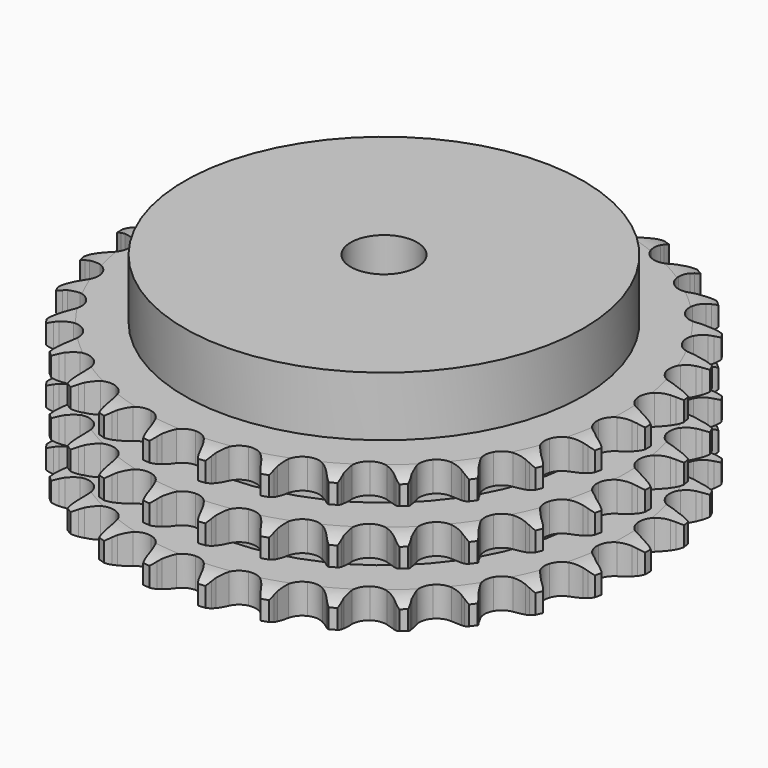
from build123d import *

# Parameters (mm, degrees)
PAD_DEPTH         = 42.1
SKETCH001_R       = 60
PAD001_DEPTH      = 60
SKETCH002_R       = 10
POCKET_DEPTH      = 0.001
POCKET_DEPTH_BACK = 60.001


with BuildPart() as part:
    # Sprocket → Pad (new body)
    with BuildSketch(Plane.XY):
        with BuildLine():
            ThreePointArc((-8.457976, 80.472268), (-7.258124, 79.052161), (-6.405169, 77.400249))
            Line((-6.405169, 77.400249), (-5.909738, 76.100573))
            ThreePointArc((-5.909738, 76.100573), (-5.123685, 74.407167), (-4.107782, 72.840819))
            ThreePointArc((-4.107782, 72.840819), (-2.295018, 71.33316), (0, 70.792755))
            ThreePointArc((0, 70.792755), (2.295018, 71.33316), (4.107782, 72.840819))
            ThreePointArc((4.107782, 72.840819), (5.123685, 74.407167), (5.909738, 76.100573))
            Line((5.909738, 76.100573), (6.405169, 77.400249))
            ThreePointArc((6.405169, 77.400249), (7.258124, 79.052161), (8.457976, 80.472268))
            ThreePointArc((8.457976, 80.472268), (9.336351, 78.833731), (9.827215, 77.040577))
            Line((9.827215, 77.040577), (10.041603, 75.666296))
            ThreePointArc((10.041603, 75.666296), (10.4584, 73.846465), (11.126441, 72.103128))
            ThreePointArc((11.126441, 72.103128), (12.586131, 70.25152), (14.718641, 69.245763))
            ThreePointArc((14.718641, 69.245763), (17.075865, 69.297198), (19.162475, 70.395017))
            Line((19.162475, 70.395017), (21.602794, 73.208889))
            ThreePointArc((21.602794, 73.208889), (21.964891, 73.802919), (22.357618, 74.377158))
            ThreePointArc((22.357618, 74.377158), (23.535385, 75.815633), (25.004274, 76.955243))
            ThreePointArc((25.004274, 76.955243), (25.522784, 75.169888), (25.630104, 73.313863))
            Line((25.630104, 73.313863), (25.554078, 71.925039))
            ThreePointArc((25.554078, 71.925039), (25.583402, 70.058319), (25.874385, 68.214185))
            ThreePointArc((25.874385, 68.214185), (26.917206, 66.099552), (28.794007, 64.672399))
            ThreePointArc((28.794007, 64.672399), (31.110414, 64.232616), (33.379676, 64.872614))
            Line((33.379676, 64.872614), (36.351705, 67.117626))
            ThreePointArc((36.351705, 67.117626), (36.829395, 67.62339), (37.332931, 68.103429))
            ThreePointArc((37.332931, 68.103429), (38.784037, 69.265598), (40.457766, 70.074906))
            ThreePointArc((40.457766, 70.074906), (40.593748, 68.22076), (40.312834, 66.382981))
            Line((40.312834, 66.382981), (39.949716, 65.040313))
            ThreePointArc((39.949716, 65.040313), (39.590287, 63.208289), (39.491494, 61.343954))
            ThreePointArc((39.491494, 61.343954), (40.07187, 59.058716), (41.610937, 57.272542))
            ThreePointArc((41.610937, 57.272542), (43.785288, 56.36076), (46.138024, 56.514967))
            Line((46.138024, 56.514967), (49.511872, 58.093))
            ThreePointArc((49.511872, 58.093), (50.084278, 58.488395), (50.676616, 58.853253))
            ThreePointArc((50.676616, 58.853253), (52.33764, 59.688323), (54.143059, 60.131958))
            ThreePointArc((54.143059, 60.131958), (53.890571, 58.290058), (53.233699, 56.550844))
            Line((53.233699, 56.550844), (52.59936, 55.313013))
            ThreePointArc((52.59936, 55.313013), (51.866887, 53.595752), (51.382635, 51.792698))
            ThreePointArc((51.382635, 51.792698), (51.475201, 49.436732), (52.609269, 47.369599))
            ThreePointArc((52.609269, 47.369599), (54.546536, 46.025669), (56.87992, 45.687345))
            Line((56.87992, 45.687345), (60.508133, 46.529431))
            ThreePointArc((60.508133, 46.529431), (61.150237, 46.797177), (61.805489, 47.030907))
            ThreePointArc((61.805489, 47.030907), (63.603838, 47.502383), (65.46204, 47.560956))
            ThreePointArc((65.46204, 47.560956), (64.832118, 45.811801), (63.827997, 44.247164))
            Line((63.827997, 44.247164), (62.95016, 43.168269))
            ThreePointArc((62.95016, 43.168269), (61.876654, 41.640824), (61.028109, 39.977853))
            ThreePointArc((61.028109, 39.977853), (60.628819, 37.654124), (61.308324, 35.396377))
            ThreePointArc((61.308324, 35.396377), (62.923838, 33.679036), (65.135891, 32.862966))
            Line((65.135891, 32.862966), (68.859898, 32.932303))
            ThreePointArc((68.859898, 32.932303), (69.543638, 33.060697), (70.233166, 33.153085))
            ThreePointArc((70.233166, 33.153085), (72.090242, 33.24036), (73.920016, 32.911312))
            ThreePointArc((73.920016, 32.911312), (72.940189, 31.331348), (71.632705, 30.00967))
            Line((71.632705, 30.00967), (70.549736, 29.136865))
            ThreePointArc((70.549736, 29.136865), (69.182115, 27.865993), (68.006361, 26.415784))
            ThreePointArc((68.006361, 26.415784), (67.132667, 24.225851), (67.327911, 21.876164))
            ThreePointArc((67.327911, 21.876164), (68.551066, 19.860466), (70.54511, 18.602318))
            Line((70.54511, 18.602318), (74.202155, 17.895876))
            ThreePointArc((74.202155, 17.895876), (74.897648, 17.879306), (75.591317, 17.826314))
            ThreePointArc((75.591317, 17.826314), (77.425957, 17.525575), (79.147333, 16.823285))
            ThreePointArc((79.147333, 16.823285), (77.860425, 15.481565), (76.30672, 14.46061))
            Line((76.30672, 14.46061), (75.06595, 13.832039))
            ThreePointArc((75.06595, 13.832039), (73.463985, 12.873283), (72.012409, 11.699218))
            ThreePointArc((72.012409, 11.699218), (70.702494, 9.738792), (70.404944, 7.399858))
            ThreePointArc((70.404944, 7.399858), (71.182284, 5.173899), (72.87117, 3.52866))
            Line((72.87117, 3.52866), (76.301421, 2.077313))
            ThreePointArc((76.301421, 2.077313), (76.978271, 1.916504), (77.645765, 1.720448))
            ThreePointArc((77.645765, 1.720448), (79.377786, 1.044837), (80.915531, 0))
            ThreePointArc((80.915531, 0), (79.377786, -1.044837), (77.645765, -1.720448))
            Line((77.645765, -1.720448), (76.301421, -2.077313))
            ThreePointArc((76.301421, -2.077313), (74.535127, -2.68205), (72.87117, -3.52866))
            ThreePointArc((72.87117, -3.52866), (71.182284, -5.173899), (70.404944, -7.399858))
            ThreePointArc((70.404944, -7.399858), (70.702494, -9.738792), (72.012409, -11.699218))
            Line((72.012409, -11.699218), (75.06595, -13.832039))
            ThreePointArc((75.06595, -13.832039), (75.694575, -14.130059), (76.30672, -14.46061))
            ThreePointArc((76.30672, -14.46061), (77.860425, -15.481565), (79.147333, -16.823285))
            ThreePointArc((79.147333, -16.823285), (77.425957, -17.525575), (75.591317, -17.826314))
            Line((75.591317, -17.826314), (74.202155, -17.895876))
            ThreePointArc((74.202155, -17.895876), (72.348726, -18.120165), (70.54511, -18.602318))
            ThreePointArc((70.54511, -18.602318), (68.551066, -19.860466), (67.327911, -21.876164))
            ThreePointArc((67.327911, -21.876164), (67.132667, -24.225851), (68.006361, -26.415784))
            Line((68.006361, -26.415784), (70.549736, -29.136865))
            ThreePointArc((70.549736, -29.136865), (71.102662, -29.55907), (71.632705, -30.00967))
            ThreePointArc((71.632705, -30.00967), (72.940189, -31.331348), (73.920016, -32.911312))
            ThreePointArc((73.920016, -32.911312), (72.090242, -33.24036), (70.233166, -33.153085))
            Line((70.233166, -33.153085), (68.859898, -32.932303))
            ThreePointArc((68.859898, -32.932303), (67.000339, -32.766342), (65.135891, -32.862966))
            ThreePointArc((65.135891, -32.862966), (62.923838, -33.679036), (61.308324, -35.396377))
            ThreePointArc((61.308324, -35.396377), (60.628819, -37.654124), (61.028109, -39.977853))
            Line((61.028109, -39.977853), (62.95016, -43.168269))
            ThreePointArc((62.95016, -43.168269), (63.403222, -43.696209), (63.827997, -44.247164))
            ThreePointArc((63.827997, -44.247164), (64.832118, -45.811801), (65.46204, -47.560956))
            ThreePointArc((65.46204, -47.560956), (63.603838, -47.502383), (61.805489, -47.030907))
            Line((61.805489, -47.030907), (60.508133, -46.529431))
            ThreePointArc((60.508133, -46.529431), (58.723715, -45.980473), (56.87992, -45.687345))
            ThreePointArc((56.87992, -45.687345), (54.546536, -46.025669), (52.609269, -47.369599))
            ThreePointArc((52.609269, -47.369599), (51.475201, -49.436732), (51.382635, -51.792698))
            Line((51.382635, -51.792698), (52.59936, -55.313013))
            ThreePointArc((52.59936, -55.313013), (52.932757, -55.923613), (53.233699, -56.550844))
            ThreePointArc((53.233699, -56.550844), (53.890571, -58.290058), (54.143059, -60.131958))
            ThreePointArc((54.143059, -60.131958), (52.33764, -59.688323), (50.676616, -58.853253))
            Line((50.676616, -58.853253), (49.511872, -58.093))
            ThreePointArc((49.511872, -58.093), (47.880583, -57.185036), (46.138024, -56.514967))
            ThreePointArc((46.138024, -56.514967), (43.785288, -56.36076), (41.610937, -57.272542))
            ThreePointArc((41.610937, -57.272542), (40.07187, -59.058716), (39.491494, -61.343954))
            Line((39.491494, -61.343954), (39.949716, -65.040313))
            ThreePointArc((39.949716, -65.040313), (40.148877, -65.706887), (40.312834, -66.382981))
            ThreePointArc((40.312834, -66.382981), (40.593748, -68.22076), (40.457766, -70.074906))
            ThreePointArc((40.457766, -70.074906), (38.784037, -69.265598), (37.332931, -68.103429))
            Line((37.332931, -68.103429), (36.351705, -67.117626))
            ThreePointArc((36.351705, -67.117626), (34.94484, -65.890339), (33.379676, -64.872614))
            ThreePointArc((33.379676, -64.872614), (31.110414, -64.232616), (28.794007, -64.672399))
            ThreePointArc((28.794007, -64.672399), (26.917206, -66.099552), (25.874385, -68.214185))
            Line((25.874385, -68.214185), (25.554078, -71.925039))
            ThreePointArc((25.554078, -71.925039), (25.610297, -72.618454), (25.630104, -73.313863))
            ThreePointArc((25.630104, -73.313863), (25.522784, -75.169888), (25.004274, -76.955243))
            ThreePointArc((25.004274, -76.955243), (23.535385, -75.815633), (22.357618, -74.377158))
            Line((22.357618, -74.377158), (21.602794, -73.208889))
            ThreePointArc((21.602794, -73.208889), (20.48184, -71.715917), (19.162475, -70.395017))
            ThreePointArc((19.162475, -70.395017), (17.075865, -69.297198), (14.718641, -69.245763))
            ThreePointArc((14.718641, -69.245763), (12.586131, -70.25152), (11.126441, -72.103128))
            Line((11.126441, -72.103128), (10.041603, -75.666296))
            ThreePointArc((10.041603, -75.666296), (9.952425, -76.356247), (9.827215, -77.040577))
            ThreePointArc((9.827215, -77.040577), (9.336351, -78.833731), (8.457976, -80.472268))
            ThreePointArc((8.457976, -80.472268), (7.258124, -79.052161), (6.405169, -77.400249))
            Line((6.405169, -77.400249), (5.909738, -76.100573))
            ThreePointArc((5.909738, -76.100573), (5.123685, -74.407167), (4.107782, -72.840819))
            ThreePointArc((4.107782, -72.840819), (2.295018, -71.33316), (0, -70.792755))
            ThreePointArc((0, -70.792755), (-2.295018, -71.33316), (-4.107782, -72.840819))
            Line((-4.107782, -72.840819), (-5.909738, -76.100573))
            ThreePointArc((-5.909738, -76.100573), (-6.140415, -76.756906), (-6.405169, -77.400249))
            ThreePointArc((-6.405169, -77.400249), (-7.258124, -79.052161), (-8.457976, -80.472268))
            ThreePointArc((-8.457976, -80.472268), (-9.336351, -78.833731), (-9.827215, -77.040577))
            Line((-9.827215, -77.040577), (-10.041603, -75.666296))
            ThreePointArc((-10.041603, -75.666296), (-10.4584, -73.846465), (-11.126441, -72.103128))
            ThreePointArc((-11.126441, -72.103128), (-12.586131, -70.25152), (-14.718641, -69.245763))
            ThreePointArc((-14.718641, -69.245763), (-17.075865, -69.297198), (-19.162475, -70.395017))
            Line((-19.162475, -70.395017), (-21.602794, -73.208889))
            ThreePointArc((-21.602794, -73.208889), (-21.964891, -73.802919), (-22.357618, -74.377158))
            ThreePointArc((-22.357618, -74.377158), (-23.535385, -75.815633), (-25.004274, -76.955243))
            ThreePointArc((-25.004274, -76.955243), (-25.522784, -75.169888), (-25.630104, -73.313863))
            Line((-25.630104, -73.313863), (-25.554078, -71.925039))
            ThreePointArc((-25.554078, -71.925039), (-25.583402, -70.058319), (-25.874385, -68.214185))
            ThreePointArc((-25.874385, -68.214185), (-26.917206, -66.099552), (-28.794007, -64.672399))
            ThreePointArc((-28.794007, -64.672399), (-31.110414, -64.232616), (-33.379676, -64.872614))
            Line((-33.379676, -64.872614), (-36.351705, -67.117626))
            ThreePointArc((-36.351705, -67.117626), (-36.829395, -67.62339), (-37.332931, -68.103429))
            ThreePointArc((-37.332931, -68.103429), (-38.784037, -69.265598), (-40.457766, -70.074906))
            ThreePointArc((-40.457766, -70.074906), (-40.593748, -68.22076), (-40.312834, -66.382981))
            Line((-40.312834, -66.382981), (-39.949716, -65.040313))
            ThreePointArc((-39.949716, -65.040313), (-39.590287, -63.208289), (-39.491494, -61.343954))
            ThreePointArc((-39.491494, -61.343954), (-40.07187, -59.058716), (-41.610937, -57.272542))
            ThreePointArc((-41.610937, -57.272542), (-43.785288, -56.36076), (-46.138024, -56.514967))
            Line((-46.138024, -56.514967), (-49.511872, -58.093))
            ThreePointArc((-49.511872, -58.093), (-50.084278, -58.488395), (-50.676616, -58.853253))
            ThreePointArc((-50.676616, -58.853253), (-52.33764, -59.688323), (-54.143059, -60.131958))
            ThreePointArc((-54.143059, -60.131958), (-53.890571, -58.290058), (-53.233699, -56.550844))
            Line((-53.233699, -56.550844), (-52.59936, -55.313013))
            ThreePointArc((-52.59936, -55.313013), (-51.866887, -53.595752), (-51.382635, -51.792698))
            ThreePointArc((-51.382635, -51.792698), (-51.475201, -49.436732), (-52.609269, -47.369599))
            ThreePointArc((-52.609269, -47.369599), (-54.546536, -46.025669), (-56.87992, -45.687345))
            Line((-56.87992, -45.687345), (-60.508133, -46.529431))
            ThreePointArc((-60.508133, -46.529431), (-61.150237, -46.797177), (-61.805489, -47.030907))
            ThreePointArc((-61.805489, -47.030907), (-63.603838, -47.502383), (-65.46204, -47.560956))
            ThreePointArc((-65.46204, -47.560956), (-64.832118, -45.811801), (-63.827997, -44.247164))
            Line((-63.827997, -44.247164), (-62.95016, -43.168269))
            ThreePointArc((-62.95016, -43.168269), (-61.876654, -41.640824), (-61.028109, -39.977853))
            ThreePointArc((-61.028109, -39.977853), (-60.628819, -37.654124), (-61.308324, -35.396377))
            ThreePointArc((-61.308324, -35.396377), (-62.923838, -33.679036), (-65.135891, -32.862966))
            Line((-65.135891, -32.862966), (-68.859898, -32.932303))
            ThreePointArc((-68.859898, -32.932303), (-69.543638, -33.060697), (-70.233166, -33.153085))
            ThreePointArc((-70.233166, -33.153085), (-72.090242, -33.24036), (-73.920016, -32.911312))
            ThreePointArc((-73.920016, -32.911312), (-72.940189, -31.331348), (-71.632705, -30.00967))
            Line((-71.632705, -30.00967), (-70.549736, -29.136865))
            ThreePointArc((-70.549736, -29.136865), (-69.182115, -27.865993), (-68.006361, -26.415784))
            ThreePointArc((-68.006361, -26.415784), (-67.132667, -24.225851), (-67.327911, -21.876164))
            ThreePointArc((-67.327911, -21.876164), (-68.551066, -19.860466), (-70.54511, -18.602318))
            Line((-70.54511, -18.602318), (-74.202155, -17.895876))
            ThreePointArc((-74.202155, -17.895876), (-74.897648, -17.879306), (-75.591317, -17.826314))
            ThreePointArc((-75.591317, -17.826314), (-77.425957, -17.525575), (-79.147333, -16.823285))
            ThreePointArc((-79.147333, -16.823285), (-77.860425, -15.481565), (-76.30672, -14.46061))
            Line((-76.30672, -14.46061), (-75.06595, -13.832039))
            ThreePointArc((-75.06595, -13.832039), (-73.463985, -12.873283), (-72.012409, -11.699218))
            ThreePointArc((-72.012409, -11.699218), (-70.702494, -9.738792), (-70.404944, -7.399858))
            ThreePointArc((-70.404944, -7.399858), (-71.182284, -5.173899), (-72.87117, -3.52866))
            Line((-72.87117, -3.52866), (-76.301421, -2.077313))
            ThreePointArc((-76.301421, -2.077313), (-76.978271, -1.916504), (-77.645765, -1.720448))
            ThreePointArc((-77.645765, -1.720448), (-79.377786, -1.044837), (-80.915531, 0))
            ThreePointArc((-80.915531, 0), (-79.377786, 1.044837), (-77.645765, 1.720448))
            Line((-77.645765, 1.720448), (-76.301421, 2.077313))
            ThreePointArc((-76.301421, 2.077313), (-74.535127, 2.68205), (-72.87117, 3.52866))
            ThreePointArc((-72.87117, 3.52866), (-71.182284, 5.173899), (-70.404944, 7.399858))
            ThreePointArc((-70.404944, 7.399858), (-70.702494, 9.738792), (-72.012409, 11.699218))
            Line((-72.012409, 11.699218), (-75.06595, 13.832039))
            ThreePointArc((-75.06595, 13.832039), (-75.694575, 14.130059), (-76.30672, 14.46061))
            ThreePointArc((-76.30672, 14.46061), (-77.860425, 15.481565), (-79.147333, 16.823285))
            ThreePointArc((-79.147333, 16.823285), (-77.425957, 17.525575), (-75.591317, 17.826314))
            Line((-75.591317, 17.826314), (-74.202155, 17.895876))
            ThreePointArc((-74.202155, 17.895876), (-72.348726, 18.120165), (-70.54511, 18.602318))
            ThreePointArc((-70.54511, 18.602318), (-68.551066, 19.860466), (-67.327911, 21.876164))
            ThreePointArc((-67.327911, 21.876164), (-67.132667, 24.225851), (-68.006361, 26.415784))
            Line((-68.006361, 26.415784), (-70.549736, 29.136865))
            ThreePointArc((-70.549736, 29.136865), (-71.102662, 29.55907), (-71.632705, 30.00967))
            ThreePointArc((-71.632705, 30.00967), (-72.940189, 31.331348), (-73.920016, 32.911312))
            ThreePointArc((-73.920016, 32.911312), (-72.090242, 33.24036), (-70.233166, 33.153085))
            Line((-70.233166, 33.153085), (-68.859898, 32.932303))
            ThreePointArc((-68.859898, 32.932303), (-67.000339, 32.766342), (-65.135891, 32.862966))
            ThreePointArc((-65.135891, 32.862966), (-62.923838, 33.679036), (-61.308324, 35.396377))
            ThreePointArc((-61.308324, 35.396377), (-60.628819, 37.654124), (-61.028109, 39.977853))
            Line((-61.028109, 39.977853), (-62.95016, 43.168269))
            ThreePointArc((-62.95016, 43.168269), (-63.403222, 43.696209), (-63.827997, 44.247164))
            ThreePointArc((-63.827997, 44.247164), (-64.832118, 45.811801), (-65.46204, 47.560956))
            ThreePointArc((-65.46204, 47.560956), (-63.603838, 47.502383), (-61.805489, 47.030907))
            Line((-61.805489, 47.030907), (-60.508133, 46.529431))
            ThreePointArc((-60.508133, 46.529431), (-58.723715, 45.980473), (-56.87992, 45.687345))
            ThreePointArc((-56.87992, 45.687345), (-54.546536, 46.025669), (-52.609269, 47.369599))
            ThreePointArc((-52.609269, 47.369599), (-51.475201, 49.436732), (-51.382635, 51.792698))
            Line((-51.382635, 51.792698), (-52.59936, 55.313013))
            ThreePointArc((-52.59936, 55.313013), (-52.932757, 55.923613), (-53.233699, 56.550844))
            ThreePointArc((-53.233699, 56.550844), (-53.890571, 58.290058), (-54.143059, 60.131958))
            ThreePointArc((-54.143059, 60.131958), (-52.33764, 59.688323), (-50.676616, 58.853253))
            Line((-50.676616, 58.853253), (-49.511872, 58.093))
            ThreePointArc((-49.511872, 58.093), (-47.880583, 57.185036), (-46.138024, 56.514967))
            ThreePointArc((-46.138024, 56.514967), (-43.785288, 56.36076), (-41.610937, 57.272542))
            ThreePointArc((-41.610937, 57.272542), (-40.07187, 59.058716), (-39.491494, 61.343954))
            Line((-39.491494, 61.343954), (-39.949716, 65.040313))
            ThreePointArc((-39.949716, 65.040313), (-40.148877, 65.706887), (-40.312834, 66.382981))
            ThreePointArc((-40.312834, 66.382981), (-40.593748, 68.22076), (-40.457766, 70.074906))
            ThreePointArc((-40.457766, 70.074906), (-38.784037, 69.265598), (-37.332931, 68.103429))
            Line((-37.332931, 68.103429), (-36.351705, 67.117626))
            ThreePointArc((-36.351705, 67.117626), (-34.94484, 65.890339), (-33.379676, 64.872614))
            ThreePointArc((-33.379676, 64.872614), (-31.110414, 64.232616), (-28.794007, 64.672399))
            ThreePointArc((-28.794007, 64.672399), (-26.917206, 66.099552), (-25.874385, 68.214185))
            Line((-25.874385, 68.214185), (-25.554078, 71.925039))
            ThreePointArc((-25.554078, 71.925039), (-25.610297, 72.618454), (-25.630104, 73.313863))
            ThreePointArc((-25.630104, 73.313863), (-25.522784, 75.169888), (-25.004274, 76.955243))
            ThreePointArc((-25.004274, 76.955243), (-23.535385, 75.815633), (-22.357618, 74.377158))
            Line((-22.357618, 74.377158), (-21.602794, 73.208889))
            ThreePointArc((-21.602794, 73.208889), (-20.48184, 71.715917), (-19.162475, 70.395017))
            ThreePointArc((-19.162475, 70.395017), (-17.075865, 69.297198), (-14.718641, 69.245763))
            ThreePointArc((-14.718641, 69.245763), (-12.586131, 70.25152), (-11.126441, 72.103128))
            Line((-11.126441, 72.103128), (-10.041603, 75.666296))
            ThreePointArc((-10.041603, 75.666296), (-9.952425, 76.356247), (-9.827215, 77.040577))
            ThreePointArc((-9.827215, 77.040577), (-9.336351, 78.833731), (-8.457976, 80.472268))
        make_face()
    extrude(amount=PAD_DEPTH)

    # Sketch → Groove (revolve, cut)
    with BuildSketch(Plane.XZ):
        with BuildLine():
            ThreePointArc((72.425762, 0), (76.00347, 0.405129), (79.4, 1.6))
            Line((79.4, 1.6), (79.4, 7.4))
            ThreePointArc((79.4, 7.4), (76.00347, 8.594871), (72.425762, 9))
            Line((60, 9), (72.425762, 9))
            Line((60, 9), (60, 16.55))
            Line((60, 16.55), (72.425762, 16.55))
            ThreePointArc((72.425762, 16.55), (76.00347, 16.955129), (79.4, 18.15))
            Line((79.4, 23.95), (79.4, 18.15))
            ThreePointArc((79.4, 23.95), (76.00347, 25.144871), (72.425762, 25.55))
            Line((60, 25.55), (72.425762, 25.55))
            Line((60, 33.1), (60, 25.55))
            Line((72.425762, 33.1), (60, 33.1))
            ThreePointArc((72.425762, 33.1), (76.00347, 33.505129), (79.4, 34.7))
            Line((79.4, 34.7), (79.4, 40.5))
            ThreePointArc((79.4, 40.5), (76.00347, 41.694871), (72.425762, 42.1))
            Line((72.425762, 42.1), (89.4, 42.1))
            Line((89.4, 42.1), (89.4, 0))
            Line((72.425762, 0), (89.4, 0))
        make_face()
    revolve(axis=Axis((0, 0, 0), (0, 0, 1)), mode=Mode.SUBTRACT)

    # Sketch001 → Pad001 (join)
    with BuildSketch(Plane.XY):
        Circle(SKETCH001_R)
    extrude(amount=PAD001_DEPTH)

    # Sketch002 → Pocket (cut, two sides)
    with BuildSketch(Plane.XY) as pocket_sk:
        Circle(SKETCH002_R)
    extrude(amount=-POCKET_DEPTH, mode=Mode.SUBTRACT)
    extrude(pocket_sk.sketch, amount=POCKET_DEPTH_BACK, mode=Mode.SUBTRACT)


solid = part.part
